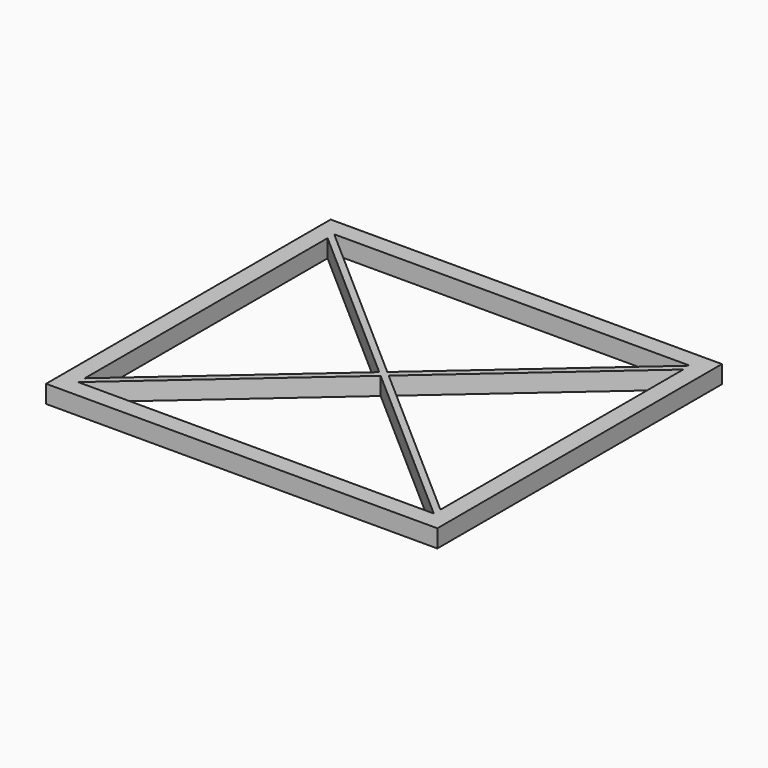
from build123d import *

# Parameters (mm, degrees)
F1_DEPTH = 3.81


with BuildPart() as f1:
    # F0 (on Top) → F1 (new body)
    with BuildSketch(Plane.XY):
        Polygon((-41.91, 38.1), (-41.91, -38.1), (41.91, -38.1), (41.91, -34.13125), (41.91, -30.1625), (41.91, -26.19375), (41.91, -22.225), (41.91, 38.1), align=None)
        Polygon((-38.1, 32.512), (-38.1, 34.29), (38.1, 34.29), (38.1, 32.512), (38.1, -32.512), (38.1, -34.29), (-38.1, -34.29), (-38.1, -32.512), align=None, mode=Mode.SUBTRACT)
        Polygon((0, 0.889), (-38.1, 34.29), (-38.1, 32.512), (-1.014068, 0), (-38.1, -32.512), (-38.1, -34.29), (0, -0.889), (38.1, -34.29), (38.1, -32.512), (1.014068, 0), (38.1, 32.512), (38.1, 34.29), align=None)
    extrude(amount=F1_DEPTH)


solid = f1.part
